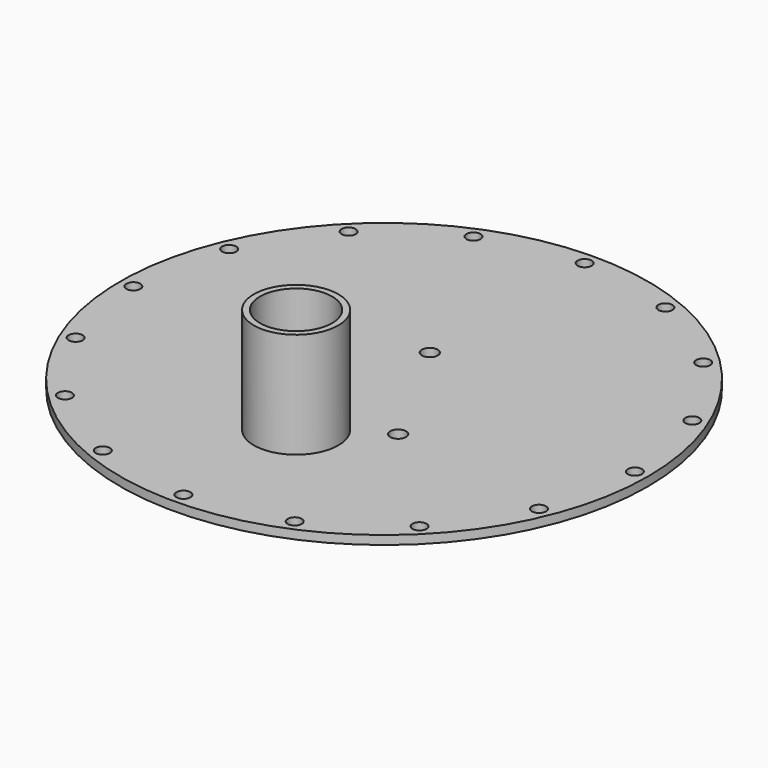
from build123d import *

# Parameters (mm, degrees)
SKETCH_R        = 150
PAD_DEPTH       = 5
SKETCH001_R     = 4
POCKET_DEPTH    = 5.001
SKETCH003_R     = 20
SKETCH003_R_2   = 4.5
POCKET001_DEPTH = 5
POCKET002_DEPTH = 5
SKETCH004_R     = 4
POCKET003_DEPTH = 5
SKETCH005_R     = 24
SKETCH005_R_2   = 20.5
PAD001_DEPTH    = 60


with BuildPart() as part:
    # Sketch → Pad (new body)
    with BuildSketch(Plane.XY):
        Circle(SKETCH_R)
    extrude(amount=PAD_DEPTH)

    # Sketch001 (on Face3 of Pad) → Pocket (cut, through all)
    with BuildSketch(Plane.XY.offset(5)):
        with Locations((0, 142.5)):
            Circle(SKETCH001_R)
        with Locations((-142.5, 0)):
            Circle(SKETCH001_R)
        with Locations((0, -142.5)):
            Circle(SKETCH001_R)
        with Locations((142.5, 0)):
            Circle(SKETCH001_R)
    extrude(amount=-POCKET_DEPTH, mode=Mode.SUBTRACT)

    # Sketch003 (on Face3 of Pocket) → Pocket001 (cut)
    with BuildSketch(Plane.XY.offset(5)):
        with Locations((0, -62.5)):
            Circle(SKETCH003_R)
        with Locations((0, 32.5)):
            Circle(SKETCH003_R_2)
        with Locations((-38, -37.5)):
            Circle(SKETCH003_R_2)
        with Locations((38, -37.5)):
            Circle(SKETCH003_R_2)
    extrude(amount=-POCKET001_DEPTH, mode=Mode.SUBTRACT)

    # Sketch003 (on Face3 of Pocket) → Pocket002 (cut)
    with BuildSketch(Plane.XY.offset(5)):
        with Locations((0, -62.5)):
            Circle(SKETCH003_R)
        with Locations((0, 32.5)):
            Circle(SKETCH003_R_2)
        with Locations((-38, -37.5)):
            Circle(SKETCH003_R_2)
        with Locations((38, -37.5)):
            Circle(SKETCH003_R_2)
    extrude(amount=-POCKET002_DEPTH, mode=Mode.SUBTRACT)

    # Sketch004 (on Face3 of Pocket002) → Pocket003 (cut)
    with BuildSketch(Plane.XY.offset(5)):
        with Locations((100.763433, 100.762)):
            Circle(SKETCH004_R)
        with Locations((100.762, -100.763433)):
            Circle(SKETCH004_R)
        with Locations((-54.532, -131.652995)):
            Circle(SKETCH004_R)
        with Locations((-100.763433, 100.762)):
            Circle(SKETCH004_R)
        with Locations((-100.762, -100.763433)):
            Circle(SKETCH004_R)
        with Locations((-131.652995, -54.532)):
            Circle(SKETCH004_R)
        with Locations((-131.652995, 54.532)):
            Circle(SKETCH004_R)
        with Locations((-54.532, 131.652995)):
            Circle(SKETCH004_R)
        with Locations((54.532, 131.652995)):
            Circle(SKETCH004_R)
        with Locations((131.740607, 54.32)):
            Circle(SKETCH004_R)
        with Locations((54.532, -131.652995)):
            Circle(SKETCH004_R)
        with Locations((131.652995, -54.532)):
            Circle(SKETCH004_R)
    extrude(amount=-POCKET003_DEPTH, mode=Mode.SUBTRACT)

    # Sketch005 (on Face3 of Pocket003) → Pad001 (join)
    with BuildSketch(Plane.XY.offset(5)):
        with Locations((0, -62.5)):
            Circle(SKETCH005_R)
        with Locations((0, -62.5)):
            Circle(SKETCH005_R_2, mode=Mode.SUBTRACT)
    extrude(amount=PAD001_DEPTH)


solid = part.part
